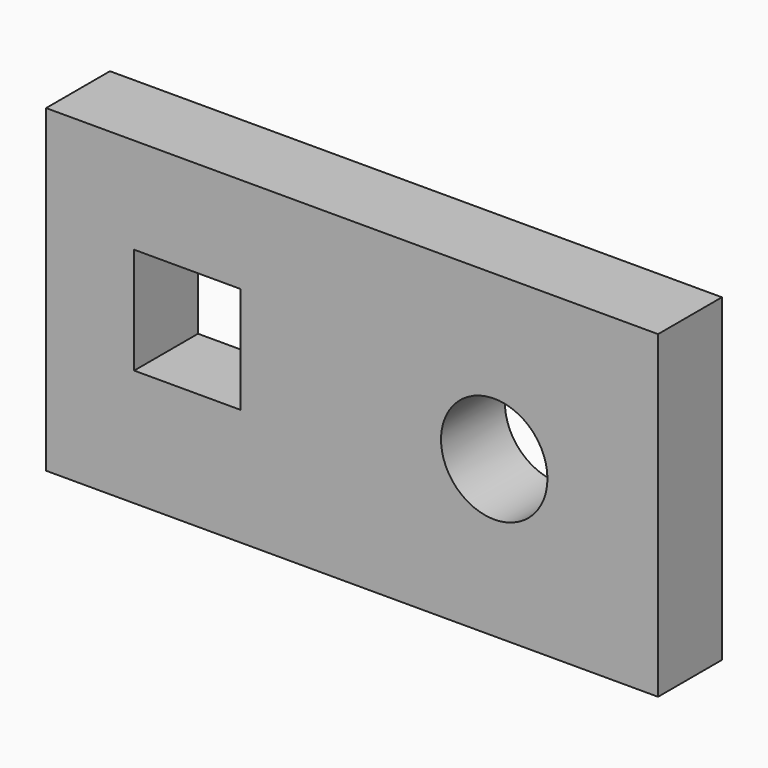
from build123d import *

# Parameters (mm, degrees)
F0_W     = 146.05
F0_H     = 76.2
F0_R     = 12.7
F0_W_2   = 25.396969
F0_H_2   = 25.4
F1_DEPTH = 19.05
F2_DEPTH = 19.05


with BuildPart() as f1:
    # F0 (on Front) → F1 (new body)
    with BuildSketch(Plane.XZ):
        with Locations((1.781759, 38.1)):
            Rectangle(F0_W, F0_H)
        with Locations((35.708521, 37.236158)):
            Circle(F0_R, mode=Mode.SUBTRACT)
        with Locations((-37.522589, 40.57938)):
            Rectangle(F0_W_2, F0_H_2, mode=Mode.SUBTRACT)
    extrude(amount=F1_DEPTH)

    # F0 (on Front) → F2 (join)
    with BuildSketch(Plane.XZ):
        with Locations((1.781759, 38.1)):
            Rectangle(F0_W, F0_H)
        with Locations((35.708521, 37.236158)):
            Circle(F0_R, mode=Mode.SUBTRACT)
        with Locations((-37.522589, 40.57938)):
            Rectangle(F0_W_2, F0_H_2, mode=Mode.SUBTRACT)
    extrude(amount=F2_DEPTH)


solid = f1.part
